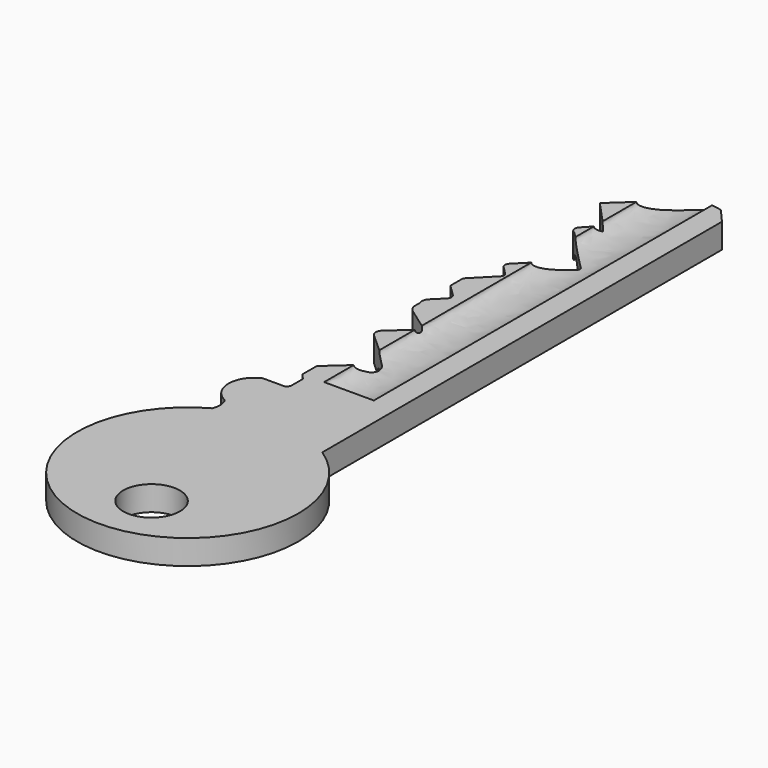
from build123d import *

# Parameters (mm, degrees)
F0_R     = 2.0399875939
F1_DEPTH = 1.778
F4_DEPTH = 30.48


with BuildPart() as f1:
    # F0 (on Top) → F1 (new body)
    with BuildSketch(Plane.XY):
        with BuildLine():
            Line((-2.2474500444, -2.9117424699), (-2.2474500444, 0))
            Line((-2.2474500444, 0), (-2.2474500444, 27.94))
            Line((-2.2474500444, 27.94), (-3.1696630176, 29.0039603153))
            ThreePointArc((-3.1696630176, 29.0039603153), (-4.517606772, 29.0903096878), (-5.7184719481, 28.4719801577))
            Line((-5.7184719481, 28.4719801577), (-9.0223492482, 25.4233760263))
            Line((-9.0223492482, 25.4233760263), (-7.1447999217, 23.3886111528))
            Line((-7.1447999217, 23.3886111528), (-8.0721545964, 22.3873686045))
            ThreePointArc((-8.0721545964, 22.3873686045), (-8.1678301412, 22.0209562196), (-7.915860042, 21.7382498085))
            Line((-7.915860042, 21.7382498085), (-5.6676184759, 19.5264350623))
            ThreePointArc((-5.6676184759, 19.5264350623), (-5.6071773645, 19.382186234), (-5.6676184759, 19.2379374057))
            Line((-5.6676184759, 19.2379374057), (-8.3859020022, 16.4748859237))
            ThreePointArc((-8.3859020022, 16.4748859237), (-8.487586257, 16.2265347605), (-8.3859020022, 15.9781835973))
            Line((-8.3859020022, 15.9781835973), (-7.7991103753, 15.3817279816))
            ThreePointArc((-7.7991103753, 15.3817279816), (-7.7196234979, 15.1875911557), (-7.7991103753, 14.9934543297))
            Line((-7.7991103753, 14.9934543297), (-9.2994498013, 13.4684055134))
            Line((-9.2994498013, 13.4684055134), (-9.2994498013, 12.332922779))
            Line((-9.2994498013, 12.332922779), (-8.4841159, 11.5307992114))
            ThreePointArc((-8.4841159, 11.5307992114), (-8.3706448453, 11.2599890574), (-8.4841159, 10.9891789034))
            Line((-8.4841159, 10.9891789034), (-9.1896303815, 10.2950954218))
            ThreePointArc((-9.1896303815, 10.2950954218), (-9.3591173772, 9.9839753745), (-9.327031672, 9.6311410889))
            Line((-9.327031672, 9.6311410889), (-9.327031672, 9.1877765954))
            ThreePointArc((-9.327031672, 9.1877765954), (-9.2468154608, 8.856566184), (-9.0239448473, 8.5987607017))
            Line((-9.0239448473, 8.5987607017), (-7.5274544806, 7.5296491278))
            ThreePointArc((-7.5274544806, 7.5296491278), (-7.35275153, 7.198711945), (-7.5274544806, 6.8677747622))
            Line((-7.5274544806, 6.8677747622), (-8.8676493615, 5.6657013483))
            ThreePointArc((-8.8676493615, 5.6657013483), (-9.0350987524, 5.290571833), (-8.8676493615, 4.9154423177))
            Line((-8.8676493615, 4.9154423177), (-6.8860357023, 3.1380552151))
            ThreePointArc((-6.8860357023, 3.1380552151), (-6.6197378492, 2.5414798318), (-6.8860357023, 1.9449044485))
            Line((-6.8860357023, 1.9449044485), (-8.8908116128, 0.1467422132))
            Line((-8.8908116128, 0.1467422132), (-9.0544149007, 0))
            Line((-9.0544149007, 0), (-9.0544149007, -1.2954237172))
            Line((-9.0544149007, -1.2954237172), (-8.6787752807, -1.7142253395))
            Line((-8.6787752807, -1.7142253395), (-8.6787752807, -2.6730590034))
            ThreePointArc((-8.6787752807, -2.6730590034), (-8.7365906278, -2.8937386893), (-8.8951829821, -3.0577222351))
            Line((-8.8951829821, -3.0577222351), (-10.4990126565, -3.0577222351))
            ThreePointArc((-10.4990126565, -3.0577222351), (-11.5975153355, -4.7606840963), (-10.4990126565, -6.4636459574))
            ThreePointArc((-10.4990126565, -6.4636459574), (-10.3201001064, -7.0675601765), (-10.4314250686, -7.6875027847))
            ThreePointArc((-10.4314250686, -7.6875027847), (-6.9202814869, -22.620283669), (-2.2474500444, -8.0093042186))
            Line((-2.2474500444, -8.0093042186), (-2.2474500444, -2.9117424699))
        make_face()
        with Locations((-6.0510337353, -18.6164323241)):
            Circle(F0_R, mode=Mode.SUBTRACT)
    extrude(amount=F1_DEPTH)

    # F3 (on offset) → F4 (cut)
    with BuildSketch(Plane.XZ.offset(-29.21)):
        with BuildLine():
            add(Edge.make_bspline(
                [(-7.5080851093, 1.778), (-7.5080851093, 1.1522095813), (-5.7184719481, 1.1522095813), (-3.9288587868, 1.1522095813), (-3.9288587868, 1.778)],
                knots=[0, 0, 0, 1.5707963268, 1.5707963268, 3.1415926536, 3.1415926536, 3.1415926536], degree=2, weights=[1, 0.7071067812, 1, 0.7071067812, 1]))
            Line((-3.9288587868, 1.778), (-5.7184719481, 1.778))
            Line((-5.7184719481, 1.778), (-7.5080851093, 1.778))
        make_face()
        with BuildLine():
            Line((-7.9582390594, 0), (-6.7472640007, 0))
            ThreePointArc((-6.7472640007, 0), (-7.35275153, 0.6054875294), (-7.9582390594, 0))
        make_face()
        with BuildLine():
            Line((-4.7784805667, 0), (-3.1696630176, 0))
            Line((-3.1696630176, 0), (-2.5410559591, 0))
            ThreePointArc((-2.5410559591, 0), (-3.6597682629, 1.1187123038), (-4.7784805667, 0))
        make_face()
    extrude(amount=F4_DEPTH, mode=Mode.SUBTRACT)


solid = f1.part
